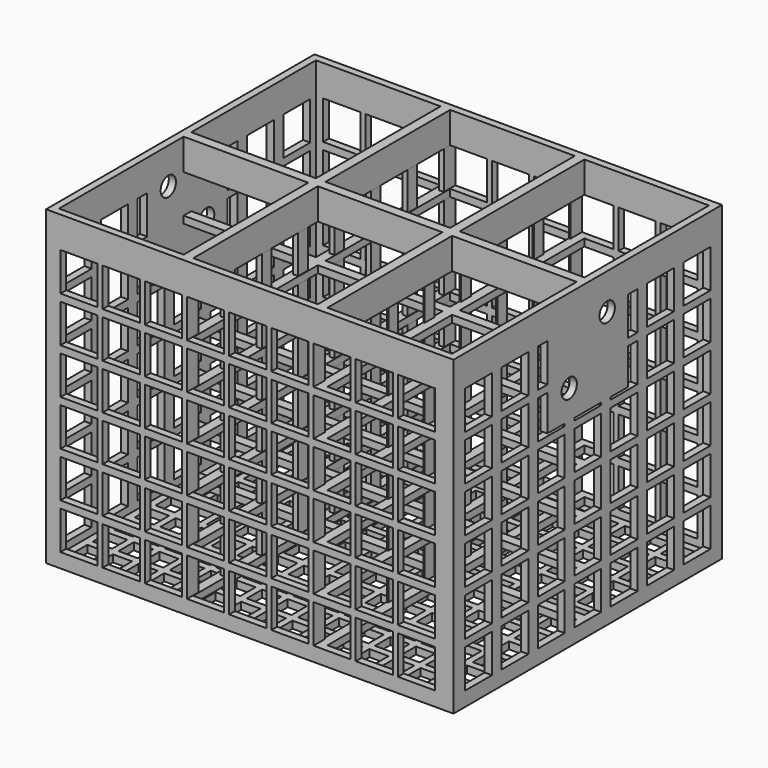
from build123d import *

# Parameters (mm, degrees)
F0_W      = 170
F0_H      = 140
F1_DEPTH  = 130
F3_W      = 52
F3_H      = 65
F4_DEPTH  = 127
F5_W      = 8
F5_H      = 8
F6_DEPTH  = 3
F7_W      = 14
F7_H      = 16
F8_DEPTH  = 170
F9_W      = 15.5
F9_H      = 16
F10_DEPTH = 140
F11_W     = 42
F11_H     = 47
F12_DEPTH = 3
F13_W     = 42
F13_H     = 47
F14_DEPTH = 3
F15_R     = 4
F16_DEPTH = 5
F17_R     = 4
F18_DEPTH = 5


with BuildPart() as f1:
    # F0 (on Top) → F1 (new body)
    with BuildSketch(Plane.XY):
        with Locations((85, 70)):
            Rectangle(F0_W, F0_H)
    extrude(amount=F1_DEPTH)

    # F3 (on offset) → F4 (cut, through all)
    with BuildSketch(Plane.XY.offset(3)):
        with Locations((29, 35.5)):
            Rectangle(F3_W, F3_H)
        with Locations((29, 104.5)):
            Rectangle(F3_W, F3_H)
        with Locations((85, 35.5)):
            Rectangle(F3_W, F3_H)
        with Locations((85, 104.5)):
            Rectangle(F3_W, F3_H)
        with Locations((141, 35.5)):
            Rectangle(F3_W, F3_H)
        with Locations((141, 104.5)):
            Rectangle(F3_W, F3_H)
    extrude(amount=F4_DEPTH, mode=Mode.SUBTRACT)

    # F5 (on Top) → F6 (cut)
    with BuildSketch(Plane.XY):
        with Locations((10, 10)):
            Rectangle(F5_W, F5_H)
        with Locations((10, 20.9)):
            Rectangle(F5_W, F5_H)
        with Locations((10, 31.8)):
            Rectangle(F5_W, F5_H)
        with Locations((10, 42.7)):
            Rectangle(F5_W, F5_H)
        with Locations((10, 53.6)):
            Rectangle(F5_W, F5_H)
        with Locations((10, 64.5)):
            Rectangle(F5_W, F5_H)
        with Locations((10, 75.4)):
            Rectangle(F5_W, F5_H)
        with Locations((10, 86.3)):
            Rectangle(F5_W, F5_H)
        with Locations((10, 97.2)):
            Rectangle(F5_W, F5_H)
        with Locations((10, 108.1)):
            Rectangle(F5_W, F5_H)
        with Locations((10, 119)):
            Rectangle(F5_W, F5_H)
        with Locations((10, 129.9)):
            Rectangle(F5_W, F5_H)
        with Locations((20.7, 10)):
            Rectangle(F5_W, F5_H)
        with Locations((20.7, 20.9)):
            Rectangle(F5_W, F5_H)
        with Locations((20.7, 31.8)):
            Rectangle(F5_W, F5_H)
        with Locations((20.7, 42.7)):
            Rectangle(F5_W, F5_H)
        with Locations((20.7, 53.6)):
            Rectangle(F5_W, F5_H)
        with Locations((20.7, 64.5)):
            Rectangle(F5_W, F5_H)
        with Locations((20.7, 75.4)):
            Rectangle(F5_W, F5_H)
        with Locations((20.7, 86.3)):
            Rectangle(F5_W, F5_H)
        with Locations((20.7, 97.2)):
            Rectangle(F5_W, F5_H)
        with Locations((20.7, 108.1)):
            Rectangle(F5_W, F5_H)
        with Locations((20.7, 119)):
            Rectangle(F5_W, F5_H)
        with Locations((20.7, 129.9)):
            Rectangle(F5_W, F5_H)
        with Locations((31.4, 10)):
            Rectangle(F5_W, F5_H)
        with Locations((31.4, 20.9)):
            Rectangle(F5_W, F5_H)
        with Locations((31.4, 31.8)):
            Rectangle(F5_W, F5_H)
        with Locations((31.4, 42.7)):
            Rectangle(F5_W, F5_H)
        with Locations((31.4, 53.6)):
            Rectangle(F5_W, F5_H)
        with Locations((31.4, 64.5)):
            Rectangle(F5_W, F5_H)
        with Locations((31.4, 75.4)):
            Rectangle(F5_W, F5_H)
        with Locations((31.4, 86.3)):
            Rectangle(F5_W, F5_H)
        with Locations((31.4, 97.2)):
            Rectangle(F5_W, F5_H)
        with Locations((31.4, 108.1)):
            Rectangle(F5_W, F5_H)
        with Locations((31.4, 119)):
            Rectangle(F5_W, F5_H)
        with Locations((31.4, 129.9)):
            Rectangle(F5_W, F5_H)
        with Locations((42.1, 10)):
            Rectangle(F5_W, F5_H)
        with Locations((42.1, 20.9)):
            Rectangle(F5_W, F5_H)
        with Locations((42.1, 31.8)):
            Rectangle(F5_W, F5_H)
        with Locations((42.1, 42.7)):
            Rectangle(F5_W, F5_H)
        with Locations((42.1, 53.6)):
            Rectangle(F5_W, F5_H)
        with Locations((42.1, 64.5)):
            Rectangle(F5_W, F5_H)
        with Locations((42.1, 75.4)):
            Rectangle(F5_W, F5_H)
        with Locations((42.1, 86.3)):
            Rectangle(F5_W, F5_H)
        with Locations((42.1, 97.2)):
            Rectangle(F5_W, F5_H)
        with Locations((42.1, 108.1)):
            Rectangle(F5_W, F5_H)
        with Locations((42.1, 119)):
            Rectangle(F5_W, F5_H)
        with Locations((42.1, 129.9)):
            Rectangle(F5_W, F5_H)
        with Locations((52.8, 10)):
            Rectangle(F5_W, F5_H)
        with Locations((52.8, 20.9)):
            Rectangle(F5_W, F5_H)
        with Locations((52.8, 31.8)):
            Rectangle(F5_W, F5_H)
        with Locations((52.8, 42.7)):
            Rectangle(F5_W, F5_H)
        with Locations((52.8, 53.6)):
            Rectangle(F5_W, F5_H)
        with Locations((52.8, 64.5)):
            Rectangle(F5_W, F5_H)
        with Locations((52.8, 75.4)):
            Rectangle(F5_W, F5_H)
        with Locations((52.8, 86.3)):
            Rectangle(F5_W, F5_H)
        with Locations((52.8, 97.2)):
            Rectangle(F5_W, F5_H)
        with Locations((52.8, 108.1)):
            Rectangle(F5_W, F5_H)
        with Locations((52.8, 119)):
            Rectangle(F5_W, F5_H)
        with Locations((52.8, 129.9)):
            Rectangle(F5_W, F5_H)
        with Locations((63.5, 10)):
            Rectangle(F5_W, F5_H)
        with Locations((63.5, 20.9)):
            Rectangle(F5_W, F5_H)
        with Locations((63.5, 31.8)):
            Rectangle(F5_W, F5_H)
        with Locations((63.5, 42.7)):
            Rectangle(F5_W, F5_H)
        with Locations((63.5, 53.6)):
            Rectangle(F5_W, F5_H)
        with Locations((63.5, 64.5)):
            Rectangle(F5_W, F5_H)
        with Locations((63.5, 75.4)):
            Rectangle(F5_W, F5_H)
        with Locations((63.5, 86.3)):
            Rectangle(F5_W, F5_H)
        with Locations((63.5, 97.2)):
            Rectangle(F5_W, F5_H)
        with Locations((63.5, 108.1)):
            Rectangle(F5_W, F5_H)
        with Locations((63.5, 119)):
            Rectangle(F5_W, F5_H)
        with Locations((63.5, 129.9)):
            Rectangle(F5_W, F5_H)
        with Locations((74.2, 10)):
            Rectangle(F5_W, F5_H)
        with Locations((74.2, 20.9)):
            Rectangle(F5_W, F5_H)
        with Locations((74.2, 31.8)):
            Rectangle(F5_W, F5_H)
        with Locations((74.2, 42.7)):
            Rectangle(F5_W, F5_H)
        with Locations((74.2, 53.6)):
            Rectangle(F5_W, F5_H)
        with Locations((74.2, 64.5)):
            Rectangle(F5_W, F5_H)
        with Locations((74.2, 75.4)):
            Rectangle(F5_W, F5_H)
        with Locations((74.2, 86.3)):
            Rectangle(F5_W, F5_H)
        with Locations((74.2, 97.2)):
            Rectangle(F5_W, F5_H)
        with Locations((74.2, 108.1)):
            Rectangle(F5_W, F5_H)
        with Locations((74.2, 119)):
            Rectangle(F5_W, F5_H)
        with Locations((74.2, 129.9)):
            Rectangle(F5_W, F5_H)
        with Locations((84.9, 10)):
            Rectangle(F5_W, F5_H)
        with Locations((84.9, 20.9)):
            Rectangle(F5_W, F5_H)
        with Locations((84.9, 31.8)):
            Rectangle(F5_W, F5_H)
        with Locations((84.9, 42.7)):
            Rectangle(F5_W, F5_H)
        with Locations((84.9, 53.6)):
            Rectangle(F5_W, F5_H)
        with Locations((84.9, 64.5)):
            Rectangle(F5_W, F5_H)
        with Locations((84.9, 75.4)):
            Rectangle(F5_W, F5_H)
        with Locations((84.9, 86.3)):
            Rectangle(F5_W, F5_H)
        with Locations((84.9, 97.2)):
            Rectangle(F5_W, F5_H)
        with Locations((84.9, 108.1)):
            Rectangle(F5_W, F5_H)
        with Locations((84.9, 119)):
            Rectangle(F5_W, F5_H)
        with Locations((84.9, 129.9)):
            Rectangle(F5_W, F5_H)
        with Locations((95.6, 10)):
            Rectangle(F5_W, F5_H)
        with Locations((95.6, 20.9)):
            Rectangle(F5_W, F5_H)
        with Locations((95.6, 31.8)):
            Rectangle(F5_W, F5_H)
        with Locations((95.6, 42.7)):
            Rectangle(F5_W, F5_H)
        with Locations((95.6, 53.6)):
            Rectangle(F5_W, F5_H)
        with Locations((95.6, 64.5)):
            Rectangle(F5_W, F5_H)
        with Locations((95.6, 75.4)):
            Rectangle(F5_W, F5_H)
        with Locations((95.6, 86.3)):
            Rectangle(F5_W, F5_H)
        with Locations((95.6, 97.2)):
            Rectangle(F5_W, F5_H)
        with Locations((95.6, 108.1)):
            Rectangle(F5_W, F5_H)
        with Locations((95.6, 119)):
            Rectangle(F5_W, F5_H)
        with Locations((95.6, 129.9)):
            Rectangle(F5_W, F5_H)
        with Locations((106.3, 10)):
            Rectangle(F5_W, F5_H)
        with Locations((106.3, 20.9)):
            Rectangle(F5_W, F5_H)
        with Locations((106.3, 31.8)):
            Rectangle(F5_W, F5_H)
        with Locations((106.3, 42.7)):
            Rectangle(F5_W, F5_H)
        with Locations((106.3, 53.6)):
            Rectangle(F5_W, F5_H)
        with Locations((106.3, 64.5)):
            Rectangle(F5_W, F5_H)
        with Locations((106.3, 75.4)):
            Rectangle(F5_W, F5_H)
        with Locations((106.3, 86.3)):
            Rectangle(F5_W, F5_H)
        with Locations((106.3, 97.2)):
            Rectangle(F5_W, F5_H)
        with Locations((106.3, 108.1)):
            Rectangle(F5_W, F5_H)
        with Locations((106.3, 119)):
            Rectangle(F5_W, F5_H)
        with Locations((106.3, 129.9)):
            Rectangle(F5_W, F5_H)
        with Locations((117, 10)):
            Rectangle(F5_W, F5_H)
        with Locations((117, 20.9)):
            Rectangle(F5_W, F5_H)
        with Locations((117, 31.8)):
            Rectangle(F5_W, F5_H)
        with Locations((117, 42.7)):
            Rectangle(F5_W, F5_H)
        with Locations((117, 53.6)):
            Rectangle(F5_W, F5_H)
        with Locations((117, 64.5)):
            Rectangle(F5_W, F5_H)
        with Locations((117, 75.4)):
            Rectangle(F5_W, F5_H)
        with Locations((117, 86.3)):
            Rectangle(F5_W, F5_H)
        with Locations((117, 97.2)):
            Rectangle(F5_W, F5_H)
        with Locations((117, 108.1)):
            Rectangle(F5_W, F5_H)
        with Locations((117, 119)):
            Rectangle(F5_W, F5_H)
        with Locations((117, 129.9)):
            Rectangle(F5_W, F5_H)
        with Locations((127.7, 10)):
            Rectangle(F5_W, F5_H)
        with Locations((127.7, 20.9)):
            Rectangle(F5_W, F5_H)
        with Locations((127.7, 31.8)):
            Rectangle(F5_W, F5_H)
        with Locations((127.7, 42.7)):
            Rectangle(F5_W, F5_H)
        with Locations((127.7, 53.6)):
            Rectangle(F5_W, F5_H)
        with Locations((127.7, 64.5)):
            Rectangle(F5_W, F5_H)
        with Locations((127.7, 75.4)):
            Rectangle(F5_W, F5_H)
        with Locations((127.7, 86.3)):
            Rectangle(F5_W, F5_H)
        with Locations((127.7, 97.2)):
            Rectangle(F5_W, F5_H)
        with Locations((127.7, 108.1)):
            Rectangle(F5_W, F5_H)
        with Locations((127.7, 119)):
            Rectangle(F5_W, F5_H)
        with Locations((127.7, 129.9)):
            Rectangle(F5_W, F5_H)
        with Locations((138.4, 10)):
            Rectangle(F5_W, F5_H)
        with Locations((138.4, 20.9)):
            Rectangle(F5_W, F5_H)
        with Locations((138.4, 31.8)):
            Rectangle(F5_W, F5_H)
        with Locations((138.4, 42.7)):
            Rectangle(F5_W, F5_H)
        with Locations((138.4, 53.6)):
            Rectangle(F5_W, F5_H)
        with Locations((138.4, 64.5)):
            Rectangle(F5_W, F5_H)
        with Locations((138.4, 75.4)):
            Rectangle(F5_W, F5_H)
        with Locations((138.4, 86.3)):
            Rectangle(F5_W, F5_H)
        with Locations((138.4, 97.2)):
            Rectangle(F5_W, F5_H)
        with Locations((138.4, 108.1)):
            Rectangle(F5_W, F5_H)
        with Locations((138.4, 119)):
            Rectangle(F5_W, F5_H)
        with Locations((138.4, 129.9)):
            Rectangle(F5_W, F5_H)
        with Locations((149.1, 10)):
            Rectangle(F5_W, F5_H)
        with Locations((149.1, 20.9)):
            Rectangle(F5_W, F5_H)
        with Locations((149.1, 31.8)):
            Rectangle(F5_W, F5_H)
        with Locations((149.1, 42.7)):
            Rectangle(F5_W, F5_H)
        with Locations((149.1, 53.6)):
            Rectangle(F5_W, F5_H)
        with Locations((149.1, 64.5)):
            Rectangle(F5_W, F5_H)
        with Locations((149.1, 75.4)):
            Rectangle(F5_W, F5_H)
        with Locations((149.1, 86.3)):
            Rectangle(F5_W, F5_H)
        with Locations((149.1, 97.2)):
            Rectangle(F5_W, F5_H)
        with Locations((149.1, 108.1)):
            Rectangle(F5_W, F5_H)
        with Locations((149.1, 119)):
            Rectangle(F5_W, F5_H)
        with Locations((149.1, 129.9)):
            Rectangle(F5_W, F5_H)
        with Locations((159.8, 10)):
            Rectangle(F5_W, F5_H)
        with Locations((159.8, 20.9)):
            Rectangle(F5_W, F5_H)
        with Locations((159.8, 31.8)):
            Rectangle(F5_W, F5_H)
        with Locations((159.8, 42.7)):
            Rectangle(F5_W, F5_H)
        with Locations((159.8, 53.6)):
            Rectangle(F5_W, F5_H)
        with Locations((159.8, 64.5)):
            Rectangle(F5_W, F5_H)
        with Locations((159.8, 75.4)):
            Rectangle(F5_W, F5_H)
        with Locations((159.8, 86.3)):
            Rectangle(F5_W, F5_H)
        with Locations((159.8, 97.2)):
            Rectangle(F5_W, F5_H)
        with Locations((159.8, 108.1)):
            Rectangle(F5_W, F5_H)
        with Locations((159.8, 119)):
            Rectangle(F5_W, F5_H)
        with Locations((159.8, 129.9)):
            Rectangle(F5_W, F5_H)
    extrude(amount=F6_DEPTH, mode=Mode.SUBTRACT)

    # F7 (on face) → F8 (cut)
    with BuildSketch(Plane.YZ.offset(170)):
        with Locations((13, 14)):
            Rectangle(F7_W, F7_H)
        with Locations((13, 33)):
            Rectangle(F7_W, F7_H)
        with Locations((13, 52)):
            Rectangle(F7_W, F7_H)
        with Locations((13, 71)):
            Rectangle(F7_W, F7_H)
        with Locations((13, 90)):
            Rectangle(F7_W, F7_H)
        with Locations((13, 109)):
            Rectangle(F7_W, F7_H)
        with Locations((32, 14)):
            Rectangle(F7_W, F7_H)
        with Locations((32, 33)):
            Rectangle(F7_W, F7_H)
        with Locations((32, 52)):
            Rectangle(F7_W, F7_H)
        with Locations((32, 71)):
            Rectangle(F7_W, F7_H)
        with Locations((32, 90)):
            Rectangle(F7_W, F7_H)
        with Locations((32, 109)):
            Rectangle(F7_W, F7_H)
        with Locations((51, 14)):
            Rectangle(F7_W, F7_H)
        with Locations((51, 33)):
            Rectangle(F7_W, F7_H)
        with Locations((51, 52)):
            Rectangle(F7_W, F7_H)
        with Locations((51, 71)):
            Rectangle(F7_W, F7_H)
        with Locations((51, 90)):
            Rectangle(F7_W, F7_H)
        with Locations((51, 109)):
            Rectangle(F7_W, F7_H)
        with Locations((70, 14)):
            Rectangle(F7_W, F7_H)
        with Locations((70, 33)):
            Rectangle(F7_W, F7_H)
        with Locations((70, 52)):
            Rectangle(F7_W, F7_H)
        with Locations((70, 71)):
            Rectangle(F7_W, F7_H)
        with Locations((70, 90)):
            Rectangle(F7_W, F7_H)
        with Locations((70, 109)):
            Rectangle(F7_W, F7_H)
        with Locations((89, 14)):
            Rectangle(F7_W, F7_H)
        with Locations((89, 33)):
            Rectangle(F7_W, F7_H)
        with Locations((89, 52)):
            Rectangle(F7_W, F7_H)
        with Locations((89, 71)):
            Rectangle(F7_W, F7_H)
        with Locations((89, 90)):
            Rectangle(F7_W, F7_H)
        with Locations((89, 109)):
            Rectangle(F7_W, F7_H)
        with Locations((108, 14)):
            Rectangle(F7_W, F7_H)
        with Locations((108, 33)):
            Rectangle(F7_W, F7_H)
        with Locations((108, 52)):
            Rectangle(F7_W, F7_H)
        with Locations((108, 71)):
            Rectangle(F7_W, F7_H)
        with Locations((108, 90)):
            Rectangle(F7_W, F7_H)
        with Locations((108, 109)):
            Rectangle(F7_W, F7_H)
        with Locations((127, 14)):
            Rectangle(F7_W, F7_H)
        with Locations((127, 33)):
            Rectangle(F7_W, F7_H)
        with Locations((127, 52)):
            Rectangle(F7_W, F7_H)
        with Locations((127, 71)):
            Rectangle(F7_W, F7_H)
        with Locations((127, 90)):
            Rectangle(F7_W, F7_H)
        with Locations((127, 109)):
            Rectangle(F7_W, F7_H)
    extrude(amount=-F8_DEPTH, mode=Mode.SUBTRACT)

    # F9 (on face) → F10 (cut)
    with BuildSketch(Plane.XZ):
        with Locations((13.75, 14)):
            Rectangle(F9_W, F9_H)
        with Locations((13.75, 33)):
            Rectangle(F9_W, F9_H)
        with Locations((13.75, 52)):
            Rectangle(F9_W, F9_H)
        with Locations((13.75, 71)):
            Rectangle(F9_W, F9_H)
        with Locations((13.75, 90)):
            Rectangle(F9_W, F9_H)
        with Locations((13.75, 109)):
            Rectangle(F9_W, F9_H)
        with Locations((31.35, 14)):
            Rectangle(F9_W, F9_H)
        with Locations((31.35, 33)):
            Rectangle(F9_W, F9_H)
        with Locations((31.35, 52)):
            Rectangle(F9_W, F9_H)
        with Locations((31.35, 71)):
            Rectangle(F9_W, F9_H)
        with Locations((31.35, 90)):
            Rectangle(F9_W, F9_H)
        with Locations((31.35, 109)):
            Rectangle(F9_W, F9_H)
        with Locations((48.95, 14)):
            Rectangle(F9_W, F9_H)
        with Locations((48.95, 33)):
            Rectangle(F9_W, F9_H)
        with Locations((48.95, 52)):
            Rectangle(F9_W, F9_H)
        with Locations((48.95, 71)):
            Rectangle(F9_W, F9_H)
        with Locations((48.95, 90)):
            Rectangle(F9_W, F9_H)
        with Locations((48.95, 109)):
            Rectangle(F9_W, F9_H)
        with Locations((66.55, 14)):
            Rectangle(F9_W, F9_H)
        with Locations((66.55, 33)):
            Rectangle(F9_W, F9_H)
        with Locations((66.55, 52)):
            Rectangle(F9_W, F9_H)
        with Locations((66.55, 71)):
            Rectangle(F9_W, F9_H)
        with Locations((66.55, 90)):
            Rectangle(F9_W, F9_H)
        with Locations((66.55, 109)):
            Rectangle(F9_W, F9_H)
        with Locations((84.15, 14)):
            Rectangle(F9_W, F9_H)
        with Locations((84.15, 33)):
            Rectangle(F9_W, F9_H)
        with Locations((84.15, 52)):
            Rectangle(F9_W, F9_H)
        with Locations((84.15, 71)):
            Rectangle(F9_W, F9_H)
        with Locations((84.15, 90)):
            Rectangle(F9_W, F9_H)
        with Locations((84.15, 109)):
            Rectangle(F9_W, F9_H)
        with Locations((101.75, 14)):
            Rectangle(F9_W, F9_H)
        with Locations((101.75, 33)):
            Rectangle(F9_W, F9_H)
        with Locations((101.75, 52)):
            Rectangle(F9_W, F9_H)
        with Locations((101.75, 71)):
            Rectangle(F9_W, F9_H)
        with Locations((101.75, 90)):
            Rectangle(F9_W, F9_H)
        with Locations((101.75, 109)):
            Rectangle(F9_W, F9_H)
        with Locations((119.35, 14)):
            Rectangle(F9_W, F9_H)
        with Locations((119.35, 33)):
            Rectangle(F9_W, F9_H)
        with Locations((119.35, 52)):
            Rectangle(F9_W, F9_H)
        with Locations((119.35, 71)):
            Rectangle(F9_W, F9_H)
        with Locations((119.35, 90)):
            Rectangle(F9_W, F9_H)
        with Locations((119.35, 109)):
            Rectangle(F9_W, F9_H)
        with Locations((136.95, 14)):
            Rectangle(F9_W, F9_H)
        with Locations((136.95, 33)):
            Rectangle(F9_W, F9_H)
        with Locations((136.95, 52)):
            Rectangle(F9_W, F9_H)
        with Locations((136.95, 71)):
            Rectangle(F9_W, F9_H)
        with Locations((136.95, 90)):
            Rectangle(F9_W, F9_H)
        with Locations((136.95, 109)):
            Rectangle(F9_W, F9_H)
        with Locations((154.55, 14)):
            Rectangle(F9_W, F9_H)
        with Locations((154.55, 33)):
            Rectangle(F9_W, F9_H)
        with Locations((154.55, 52)):
            Rectangle(F9_W, F9_H)
        with Locations((154.55, 71)):
            Rectangle(F9_W, F9_H)
        with Locations((154.55, 90)):
            Rectangle(F9_W, F9_H)
        with Locations((154.55, 109)):
            Rectangle(F9_W, F9_H)
    extrude(amount=-F10_DEPTH, mode=Mode.SUBTRACT)

    # F11 (on face) → F12 (join)
    with BuildSketch(Plane.YZ.offset(170)):
        with Locations((70, 106.5)):
            Rectangle(F11_W, F11_H)
    extrude(amount=-F12_DEPTH)

    # F13 (on face) → F14 (join)
    with BuildSketch(Plane(origin=(0, 0, 0), x_dir=(0, -1, 0), z_dir=(-1, 0, 0))):
        with Locations((-70, 106.5)):
            Rectangle(F13_W, F13_H)
    extrude(amount=-F14_DEPTH)

    # F15 (on face) → F16 (cut)
    with BuildSketch(Plane.YZ.offset(170)):
        with Locations((80.144841, 115)):
            Circle(F15_R)
        with Locations((60.336419, 95)):
            Circle(F15_R)
    extrude(amount=-F16_DEPTH, mode=Mode.SUBTRACT)

    # F17 (on face) → F18 (cut)
    with BuildSketch(Plane(origin=(0, 0, 0), x_dir=(0, -1, 0), z_dir=(-1, 0, 0))):
        with Locations((-60, 115)):
            Circle(F17_R)
        with Locations((-80, 95)):
            Circle(F17_R)
    extrude(amount=-F18_DEPTH, mode=Mode.SUBTRACT)


solid = f1.part
